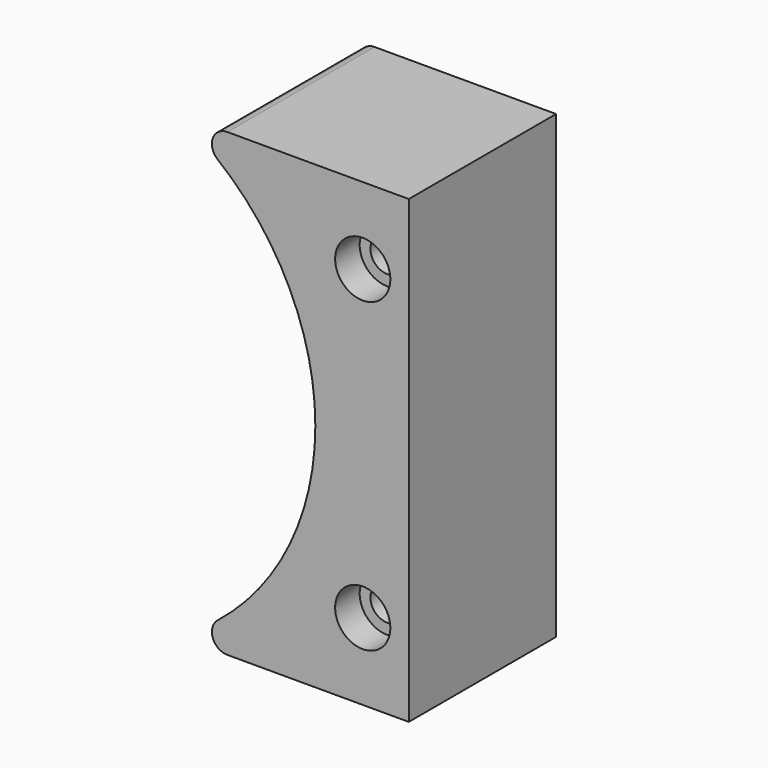
from build123d import *

# Parameters (mm, degrees)
F0_W           = 75
F0_H           = 150
F1_DEPTH       = 30
F3_DEPTH       = 60.001
F5_D           = 11
F5_CBORE_D     = 18
F5_CBORE_DEPTH = 10


with BuildPart() as f1:
    # F0 (on Front) → F1 (new body, symmetric)
    with BuildSketch(Plane.XZ):
        Rectangle(F0_W, F0_H)
    extrude(amount=F1_DEPTH, both=True)

    # F2 (on face) → F3 (cut, through all)
    with BuildSketch(Plane.XZ.offset(30)):
        with BuildLine():
            ThreePointArc((-24.768539, -66.091569), (-1.31881, -36.675997), (7.05, 0))
            ThreePointArc((7.05, 0), (-1.31881, 36.675997), (-24.768539, 66.091569))
            ThreePointArc((-24.768539, 66.091569), (-162.05, 0), (-24.768539, -66.091569))
        make_face()
        with BuildLine():
            ThreePointArc((-37.5, 74.489613), (-30.944519, 70.578253), (-24.768539, 66.091569))
            ThreePointArc((-24.768539, 66.091569), (-26.369403, 71.651945), (-21.650179, 75))
            Line((-21.650179, 75), (-37.5, 75))
            Line((-37.5, 75), (-37.5, 74.489613))
        make_face()
        with BuildLine():
            ThreePointArc((-21.650179, -75), (-26.369403, -71.651945), (-24.768539, -66.091569))
            ThreePointArc((-24.768539, -66.091569), (-30.944519, -70.578253), (-37.5, -74.489613))
            Line((-37.5, -74.489613), (-37.5, -75))
            Line((-37.5, -75), (-21.650179, -75))
        make_face()
    extrude(amount=-F3_DEPTH, mode=Mode.SUBTRACT)

    # F5 (through all)
    with Locations(Plane.XZ.offset(30)):
        with Locations((22.5, 50), (22.5, -50)):
            CounterBoreHole(F5_D / 2, F5_CBORE_D / 2, F5_CBORE_DEPTH)


solid = f1.part
